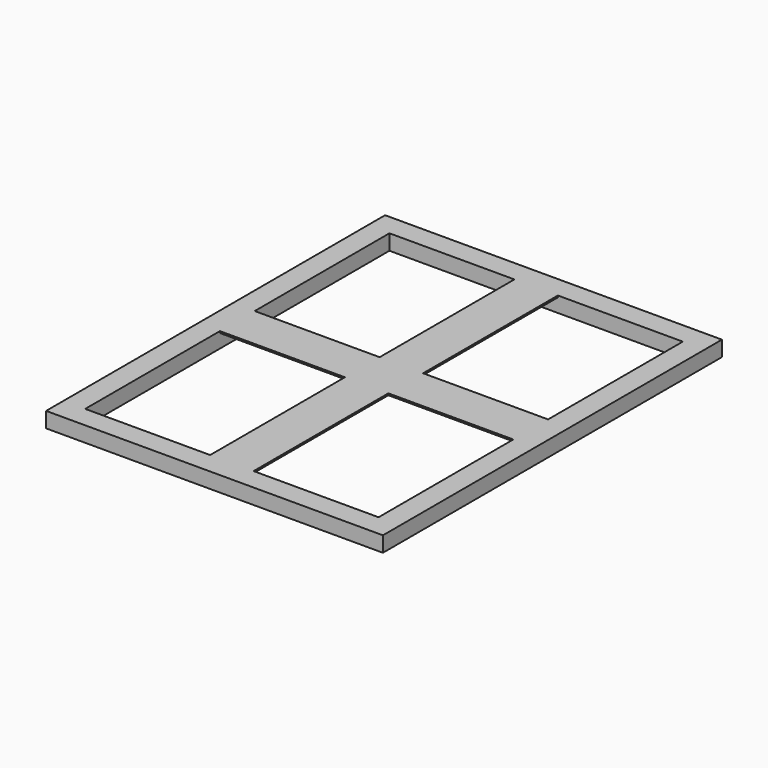
from build123d import *

# Parameters (mm, degrees)
F0_W      = 196.85
F0_H      = 247.65
F0_W_2    = 171.45
F0_H_2    = 222.25
F1_DEPTH  = 9
F2_DEPTH  = 8
F3_W      = 73.025
F3_H      = 98.425
F4_DEPTH  = 9
F5_W      = 73.025
F5_H      = 98.425
F6_DEPTH  = 10
F7_W      = 73.025
F7_H      = 98.425
F8_DEPTH  = 10
F9_W      = 73.025
F9_H      = 98.425
F10_DEPTH = 10


with BuildPart() as f1:
    # F0 (on Top) → F1 (new body)
    with BuildSketch(Plane.XY):
        with Locations((-0.0278223306, 21.0249534539)):
            Rectangle(F0_W, F0_H)
        with Locations((-0.0278223306, 21.0249534539)):
            Rectangle(F0_W_2, F0_H_2, mode=Mode.SUBTRACT)
        with Locations((-0.0278223306, 21.0249534539)):
            Rectangle(F0_W_2, F0_H_2)
    extrude(amount=F1_DEPTH)

    # F0 (on Top) → F2 (cut)
    with BuildSketch(Plane.XY):
        with Locations((-0.0278223306, 21.0249534539)):
            Rectangle(F0_W_2, F0_H_2)
    extrude(amount=F2_DEPTH, mode=Mode.SUBTRACT)

    # F3 (on face) → F4 (cut)
    with BuildSketch(Plane.XY):
        with Locations((-49.2403223306, 82.9374534539)):
            Rectangle(F3_W, F3_H)
    extrude(amount=F4_DEPTH, mode=Mode.SUBTRACT)

    # F5 (on face) → F6 (cut)
    with BuildSketch(Plane(origin=(0, 0, 8), x_dir=(1, 0, 0), z_dir=(0, 0, -1))):
        with Locations((-49.2403223306, 40.8875465461)):
            Rectangle(F5_W, F5_H)
    extrude(amount=-F6_DEPTH, mode=Mode.SUBTRACT)

    # F7 (on face) → F8 (cut)
    with BuildSketch(Plane(origin=(0, 0, 8), x_dir=(1, 0, 0), z_dir=(0, 0, -1))):
        with Locations((49.1846776694, -82.9374534539)):
            Rectangle(F7_W, F7_H)
    extrude(amount=-F8_DEPTH, mode=Mode.SUBTRACT)

    # F9 (on face) → F10 (cut)
    with BuildSketch(Plane(origin=(0, 0, 8), x_dir=(1, 0, 0), z_dir=(0, 0, -1))):
        with Locations((49.1846776694, 40.8875465461)):
            Rectangle(F9_W, F9_H)
    extrude(amount=-F10_DEPTH, mode=Mode.SUBTRACT)


solid = f1.part
